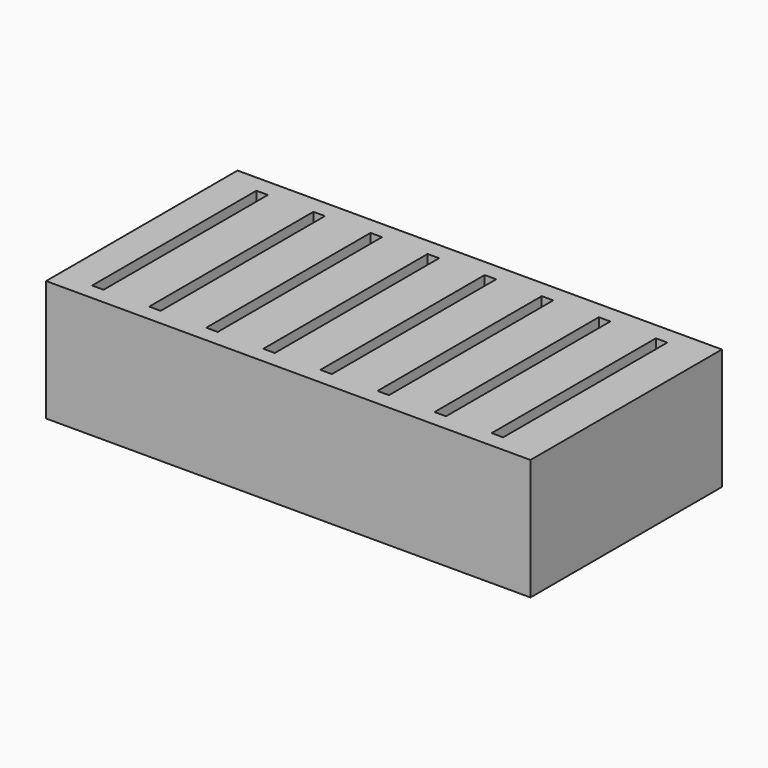
from build123d import *

# Parameters (mm, degrees)
SKETCH_W            = 40.010176
SKETCH_H            = 19.766459
PAD_DEPTH           = 10
SKETCH001_W         = 0.949318
SKETCH001_H         = 16.960248
POCKET_DEPTH        = 5
LINEARPATTERN_COUNT = 8
LINEARPATTERN_PITCH = 4.714286


with BuildPart() as part:
    # Sketch → Pad (new body)
    with BuildSketch(Plane.XY):
        with Locations((0.079543, 0.039771)):
            Rectangle(SKETCH_W, SKETCH_H)
    extrude(amount=PAD_DEPTH)

    # Sketch001 (on Face6 of Pad) → Pocket (cut)
    with BuildSketch(Plane.XY.offset(10)):
        with Locations((-16.740425, 0)):
            Rectangle(SKETCH001_W, SKETCH001_H)
    pocket = extrude(amount=-POCKET_DEPTH, mode=Mode.SUBTRACT)

    # LinearPattern: Pocket ×8
    with Locations(*[(i * LINEARPATTERN_PITCH, 0, 0) for i in range(1, LINEARPATTERN_COUNT)]):
        add(pocket, mode=Mode.SUBTRACT)


solid = part.part
